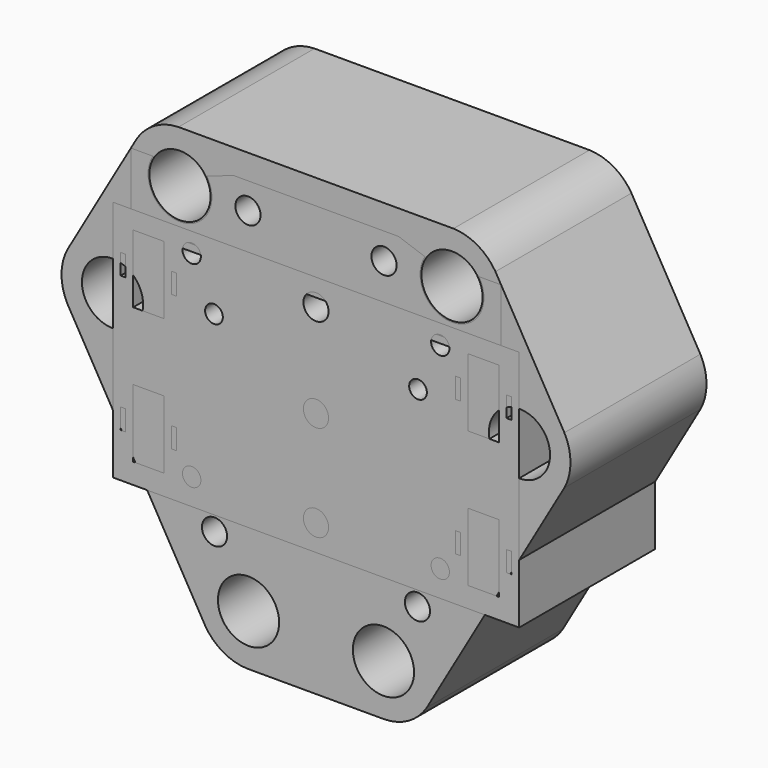
from build123d import *

# Parameters (mm, degrees)
F1_R     = 4.5
F1_R_2   = 1.85
F1_R_3   = 1.5
F1_R_4   = 3.25
F1_W     = 40
F1_H     = 12.3
F3_DEPTH = 25
F2_R     = 1.85
F4_DEPTH = 25
F0_W     = 59.7514
F0_H     = 35.637
F0_R     = 1.35
F0_W_2   = 0.7
F0_H_2   = 3
F0_W_3   = 4.5
F0_H_3   = 10
F0_R_2   = 1.85
F0_R_3   = 1.3
F5_DEPTH = 25


with BuildPart() as f3:
    # F1 (on Front) → F3 (new body)
    with BuildSketch(Plane.XZ):
        with BuildLine():
            Line((0, 30.5), (-20.214403, 30.5))
            ThreePointArc((-20.214403, 30.5), (-23.751532, 29.497844), (-26.387989, 26.935678))
            Line((-26.387989, 26.935678), (-36.520976, 9.38483))
            ThreePointArc((-36.520976, 9.38483), (-37.421648, 5.820508), (-36.520976, 2.256187))
            Line((-36.520976, 2.256187), (-26.413775, -15.25))
            Line((-26.413775, -15.25), (-16.306573, -32.756187))
            ThreePointArc((-16.306573, -32.756187), (-13.670116, -35.318352), (-10.132987, -36.320508))
            Line((-10.132987, -36.320508), (10.132987, -36.320508))
            ThreePointArc((10.132987, -36.320508), (13.670116, -35.318352), (16.306573, -32.756187))
            Line((16.306573, -32.756187), (26.413775, -15.25))
            Line((26.413775, -15.25), (36.520976, 2.256187))
            ThreePointArc((36.520976, 2.256187), (37.421648, 5.820508), (36.520976, 9.38483))
            Line((36.520976, 9.38483), (26.387989, 26.935678))
            ThreePointArc((26.387989, 26.935678), (23.751532, 29.497844), (20.214403, 30.5))
            Line((20.214403, 30.5), (0, 30.5))
        make_face()
        with Locations((-9.918584, -28.820508)):
            Circle(F1_R, mode=Mode.SUBTRACT)
        with Locations((-14.918584, -20.160254)):
            Circle(F1_R_2, mode=Mode.SUBTRACT)
        with Locations((-18.5, -5.149571)):
            Circle(F1_R_3, mode=Mode.SUBTRACT)
        with Locations((9.918584, -28.820508)):
            Circle(F1_R, mode=Mode.SUBTRACT)
        with Locations((14.918584, -20.160254)):
            Circle(F1_R_2, mode=Mode.SUBTRACT)
        with Locations((0, -6.8)):
            Circle(F1_R_4, mode=Mode.SUBTRACT)
        with Locations((18.5, -5.149571)):
            Circle(F1_R_3, mode=Mode.SUBTRACT)
        with Locations((-24.918584, -2.839746)):
            Circle(F1_R_2, mode=Mode.SUBTRACT)
        with Locations((-29.918584, 5.820508)):
            Circle(F1_R, mode=Mode.SUBTRACT)
        with Locations((-20, 23)):
            Circle(F1_R, mode=Mode.SUBTRACT)
        with Locations((-10, 23)):
            Circle(F1_R_2, mode=Mode.SUBTRACT)
        with Locations((0, 8.85)):
            Rectangle(F1_W, F1_H, mode=Mode.SUBTRACT)
        with Locations((24.918584, -2.839746)):
            Circle(F1_R_2, mode=Mode.SUBTRACT)
        with Locations((29.918584, 5.820508)):
            Circle(F1_R, mode=Mode.SUBTRACT)
        with Locations((10, 23)):
            Circle(F1_R_2, mode=Mode.SUBTRACT)
        with Locations((20, 23)):
            Circle(F1_R, mode=Mode.SUBTRACT)
    extrude(amount=F3_DEPTH)


with BuildPart() as f4:
    # F2 (on Front) → F4 (new body)
    with BuildSketch(Plane.XZ):
        with BuildLine():
            ThreePointArc((-16.02005, 25.5), (-20, 18.3), (-23.97995, 25.5))
            Line((-23.97995, 25.5), (-27.216878, 25.5))
            Line((-27.216878, 25.5), (-27.216878, 18))
            ThreePointArc((-27.216878, 18), (-26.631092, 16.585786), (-25.216878, 16))
            Line((-25.216878, 16), (0, 16))
            Line((0, 16), (25.216878, 16))
            ThreePointArc((25.216878, 16), (26.631092, 16.585786), (27.216878, 18))
            Line((27.216878, 18), (27.216878, 25.5))
            Line((27.216878, 25.5), (23.97995, 25.5))
            ThreePointArc((23.97995, 25.5), (20, 18.3), (16.02005, 25.5))
            Line((16.02005, 25.5), (12.142758, 26.858512))
            Line((12.142758, 26.858512), (0, 26.858512))
            Line((0, 26.858512), (-12.142758, 26.858512))
            Line((-12.142758, 26.858512), (-16.02005, 25.5))
        make_face()
        with Locations((-10, 23)):
            Circle(F2_R, mode=Mode.SUBTRACT)
        with Locations((10, 23)):
            Circle(F2_R, mode=Mode.SUBTRACT)
    extrude(amount=F4_DEPTH)


with BuildPart() as f5:
    # F0 (on Front) → F5 (new body)
    with BuildSketch(Plane.XZ):
        with Locations((0, -0.1815)):
            Rectangle(F0_W, F0_H)
        with Locations((-18.2757, -14.15)):
            Circle(F0_R, mode=Mode.SUBTRACT)
        with Locations((-28.3757, -10)):
            Rectangle(F0_W_2, F0_H_2, mode=Mode.SUBTRACT)
        with Locations((-24.6257, -10)):
            Rectangle(F0_W_3, F0_H_3, mode=Mode.SUBTRACT)
        with Locations((-20.8757, -10)):
            Rectangle(F0_W_2, F0_H_2, mode=Mode.SUBTRACT)
        with Locations((0, -14.15)):
            Circle(F0_R_2, mode=Mode.SUBTRACT)
        with Locations((18.2757, -14.15)):
            Circle(F0_R, mode=Mode.SUBTRACT)
        with Locations((20.8757, -10)):
            Rectangle(F0_W_2, F0_H_2, mode=Mode.SUBTRACT)
        with Locations((24.6257, -10)):
            Rectangle(F0_W_3, F0_H_3, mode=Mode.SUBTRACT)
        with Locations((28.3757, -10)):
            Rectangle(F0_W_2, F0_H_2, mode=Mode.SUBTRACT)
        with Locations((-15, 8)):
            Circle(F0_R_3, mode=Mode.SUBTRACT)
        with Locations((-28.3757, 10)):
            Rectangle(F0_W_2, F0_H_2, mode=Mode.SUBTRACT)
        with Locations((-24.6257, 10)):
            Rectangle(F0_W_3, F0_H_3, mode=Mode.SUBTRACT)
        with Locations((-20.8757, 10)):
            Rectangle(F0_W_2, F0_H_2, mode=Mode.SUBTRACT)
        with Locations((-18.2757, 14.787)):
            Circle(F0_R, mode=Mode.SUBTRACT)
        Circle(F0_R_2, mode=Mode.SUBTRACT)
        with Locations((15, 8)):
            Circle(F0_R_3, mode=Mode.SUBTRACT)
        with Locations((0, 13.787)):
            Circle(F0_R_2, mode=Mode.SUBTRACT)
        with Locations((20.8757, 10)):
            Rectangle(F0_W_2, F0_H_2, mode=Mode.SUBTRACT)
        with Locations((24.6257, 10)):
            Rectangle(F0_W_3, F0_H_3, mode=Mode.SUBTRACT)
        with Locations((28.3757, 10)):
            Rectangle(F0_W_2, F0_H_2, mode=Mode.SUBTRACT)
        with Locations((18.2757, 14.787)):
            Circle(F0_R, mode=Mode.SUBTRACT)
    extrude(amount=F5_DEPTH)


solid = Compound([f3.part, f4.part, f5.part])
